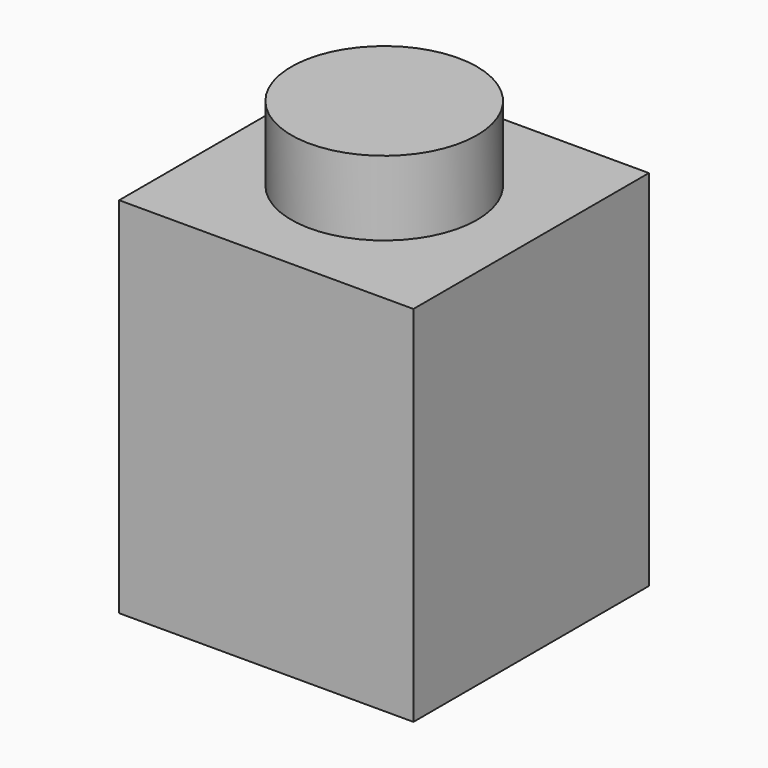
from build123d import *

# Parameters (mm, degrees)
F0_W     = 7.7724
F0_H     = 7.7724
F1_DEPTH = 9.6012
F2_R     = 2.4511
F3_DEPTH = 1.9685
F4_W     = 4.8133
F4_H     = 4.8133
F5_DEPTH = 8.128


with BuildPart() as f1:
    # F0 (on Top) → F1 (new body)
    with BuildSketch(Plane.XY):
        with Locations((-6.615506, 24.626868)):
            Rectangle(F0_W, F0_H)
    extrude(amount=F1_DEPTH)

    # F2 (on face) → F3 (join)
    with BuildSketch(Plane.XY.offset(9.6012)):
        with Locations((-6.64072, 24.664968)):
            Circle(F2_R)
    extrude(amount=F3_DEPTH)

    # F4 (on face) → F5 (cut)
    with BuildSketch(Plane(origin=(0, 0, 0), x_dir=(1, 0, 0), z_dir=(0, 0, -1))):
        with Locations((-6.710756, -24.531618)):
            Rectangle(F4_W, F4_H)
    extrude(amount=-F5_DEPTH, mode=Mode.SUBTRACT)


solid = f1.part
